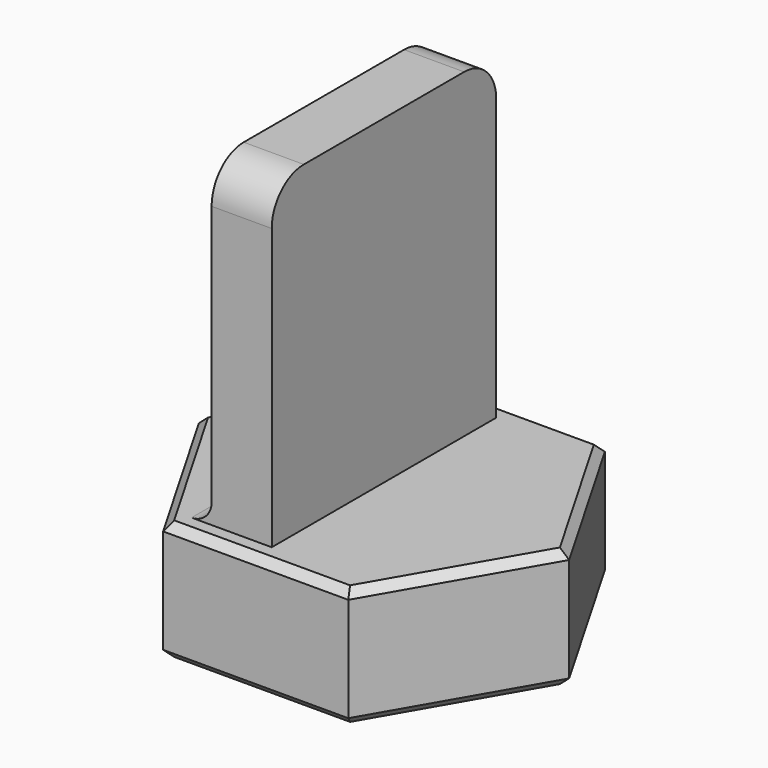
from build123d import *

# Parameters (mm, degrees)
PAD_DEPTH       = 3
SKETCH001_R     = 2.125
POCKET_DEPTH    = 2.15
CHAMFER_SIZE    = 0.2
CHAMFER001_SIZE = 0.2
SKETCH002_W     = 1.5
SKETCH002_H     = 7
PAD001_DEPTH    = 8
FILLET_R        = 0.5
FILLET001_R     = 1


with BuildPart() as part:
    # Sketch → Pad (new body)
    with BuildSketch(Plane.XY):
        Polygon((4.618802, 0), (2.309401, 4), (-2.309401, 4), (-4.618802, 0), (-2.309401, -4), (2.309401, -4), align=None)
    extrude(amount=PAD_DEPTH)

    # Sketch001 → Pocket (cut)
    with BuildSketch(Plane.XY):
        Circle(SKETCH001_R)
    extrude(amount=POCKET_DEPTH, mode=Mode.SUBTRACT)

    # Chamfer
    chamfer_edges = [part.edges().sort_by_distance(p)[0] for p in [
        (3.464102, 2, 3),
        (0, 4, 3),
        (-3.464102, 2, 3),
        (-3.464102, -2, 3),
        (0, -4, 3),
        (3.464102, -2, 3),
    ]]
    chamfer(chamfer_edges, length=CHAMFER_SIZE)

    # Chamfer001
    chamfer001_edges = [part.edges().sort_by_distance(p)[0] for p in [
        (3.464102, 2, 0),
        (3.464102, -2, 0),
        (0, 4, 0),
        (0, -4, 0),
        (-3.464102, 2, 0),
        (-3.464102, -2, 0),
        (-2.125, 0, 0),
    ]]
    chamfer(chamfer001_edges, length=CHAMFER001_SIZE)

    # Sketch002 (on Face11 of Chamfer001) → Pad001 (join)
    with BuildSketch(Plane.XY.offset(3)):
        with Locations((-0.75, 0)):
            Rectangle(SKETCH002_W, SKETCH002_H)
    extrude(amount=PAD001_DEPTH)

    # Fillet
    fillet_edges = [part.edges().sort_by_distance(p)[0] for p in [
        (-1.5, 0, 3),
    ]]
    fillet(fillet_edges, radius=FILLET_R)

    # Fillet001
    fillet001_edges = [part.edges().sort_by_distance(p)[0] for p in [
        (-0.75, -3.5, 11),
        (-0.75, 3.5, 11),
    ]]
    fillet(fillet001_edges, radius=FILLET001_R)


solid = part.part
